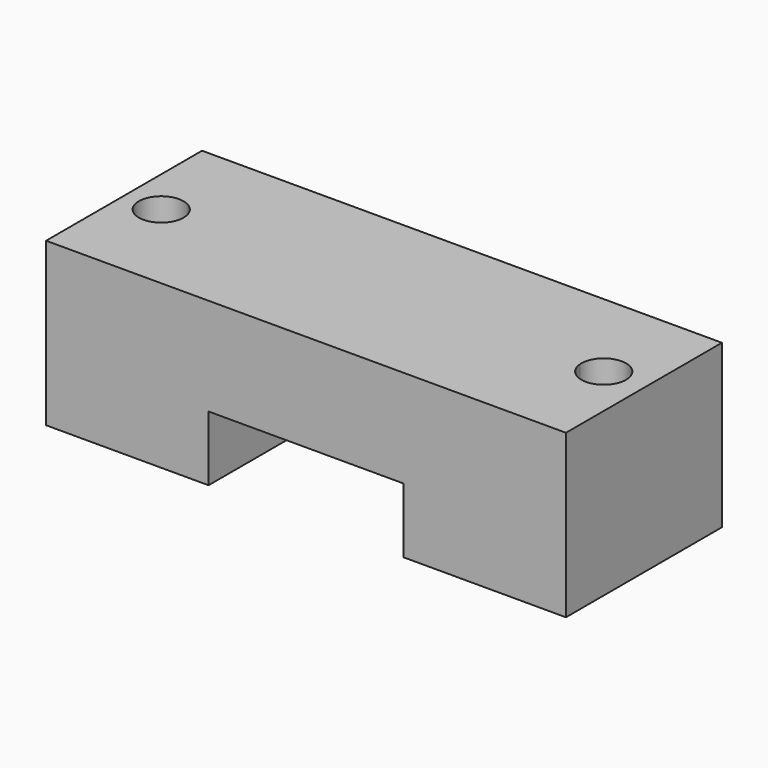
from build123d import *

# Parameters (mm, degrees)
F0_W     = 80
F0_H     = 30
F1_DEPTH = 25
F2_W     = 30
F2_H     = 10
F3_DEPTH = 100
F5_DEPTH = 100
F6_R     = 3.439
F7_DEPTH = 100


with BuildPart() as f1:
    # F0 (on Top) → F1 (new body)
    with BuildSketch(Plane.XY):
        with Locations((-28.100313, 9.002365)):
            Rectangle(F0_W, F0_H)
    extrude(amount=F1_DEPTH)

    # F2 (on face) → F3 (cut)
    with BuildSketch(Plane.XZ.offset(5.997635)):
        with Locations((-28.100313, -5)):
            Rectangle(F2_W, F2_H)
        with Locations((-28.100313, 5)):
            Rectangle(F2_W, F2_H)
    extrude(amount=-F3_DEPTH, mode=Mode.SUBTRACT)

    # F4 (on face) → F5 (cut)
    with BuildSketch(Plane.XY.offset(25)):
        with BuildLine():
            ThreePointArc((8.935186, 9.280235), (5.357178, 12.716382), (2.068512, 9.002365))
            Line((2.068512, 9.002365), (8.923941, 9.002365))
            ThreePointArc((8.923941, 9.002365), (8.932373, 9.141186), (8.935186, 9.280235))
        make_face()
        with BuildLine():
            Line((8.923941, 9.002365), (2.068512, 9.002365))
            ThreePointArc((2.068512, 9.002365), (5.496227, 5.841276), (8.923941, 9.002365))
        make_face()
    extrude(amount=-F5_DEPTH, mode=Mode.SUBTRACT)

    # F6 (on face) → F7 (cut)
    with BuildSketch(Plane.XY.offset(25)):
        with Locations((-62.385514, 9.002365)):
            Circle(F6_R)
    extrude(amount=-F7_DEPTH, mode=Mode.SUBTRACT)


solid = f1.part
